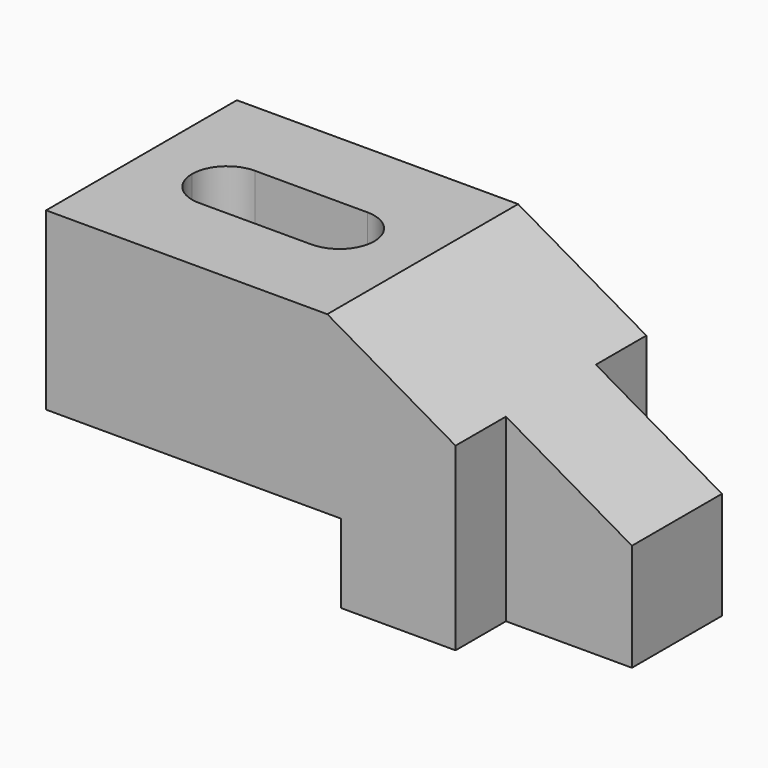
from build123d import *

# Parameters (mm, degrees)
F0_W     = 120.904
F0_H     = 57.404
F1_DEPTH = 26.924
F2_W     = 66.548
F2_H     = 17.78
F3_DEPTH = 53.849
F4_W     = 28.448
F4_H     = 14.224
F5_DEPTH = 57.405
F7_DEPTH = 57.405


with BuildPart() as f1:
    # F0 (on Front) → F1 (new body, symmetric)
    with BuildSketch(Plane.XZ):
        with Locations((60.452, 28.702)):
            Rectangle(F0_W, F0_H)
    extrude(amount=F1_DEPTH, both=True)

    # F2 (on face) → F3 (cut, through all)
    with BuildSketch(Plane.XZ.offset(26.924)):
        with Locations((33.274, 8.89)):
            Rectangle(F2_W, F2_H)
        Polygon((63.5, 57.404), (120.904, 24.2617851474), (120.904, 57.404), align=None)
    extrude(amount=-F3_DEPTH, mode=Mode.SUBTRACT)

    # F4 (on face) → F5 (cut, through all)
    with BuildSketch(Plane(origin=(0, 0, 0), x_dir=(1, 0, 0), z_dir=(0, 0, -1))):
        with Locations((106.68, 19.812)):
            Rectangle(F4_W, F4_H)
        with Locations((106.68, -19.812)):
            Rectangle(F4_W, F4_H)
    extrude(amount=-F5_DEPTH, mode=Mode.SUBTRACT)

    # F6 (on face) → F7 (cut, through all)
    with BuildSketch(Plane.XY.offset(57.404)):
        with BuildLine():
            ThreePointArc((27.178, 0), (24.8717587951, -5.5677587951), (19.304, -7.874))
            Line((19.304, -7.874), (44.704, -7.874))
            ThreePointArc((44.704, -7.874), (39.1362412049, -5.5677587951), (36.83, 0))
            Line((36.83, 0), (27.178, 0))
        make_face()
        with BuildLine():
            Line((44.704, 7.874), (19.304, 7.874))
            ThreePointArc((19.304, 7.874), (24.8717587951, 5.5677587951), (27.178, 0))
            Line((27.178, 0), (36.83, 0))
            ThreePointArc((36.83, 0), (39.1362412049, 5.5677587951), (44.704, 7.874))
        make_face()
        with BuildLine():
            ThreePointArc((19.304, 7.874), (13.7362412049, 5.5677587951), (11.43, 0))
            Line((11.43, 0), (19.304, 0))
            Line((19.304, 0), (27.178, 0))
            ThreePointArc((27.178, 0), (24.8717587951, 5.5677587951), (19.304, 7.874))
        make_face()
        with BuildLine():
            Line((19.304, 0), (11.43, 0))
            ThreePointArc((11.43, 0), (13.7362412049, -5.5677587951), (19.304, -7.874))
            ThreePointArc((19.304, -7.874), (24.8717587951, -5.5677587951), (27.178, 0))
            Line((27.178, 0), (19.304, 0))
        make_face()
        with BuildLine():
            ThreePointArc((52.578, 0), (50.2717587951, 5.5677587951), (44.704, 7.874))
            ThreePointArc((44.704, 7.874), (39.1362412049, 5.5677587951), (36.83, 0))
            ThreePointArc((36.83, 0), (39.1362412049, -5.5677587951), (44.704, -7.874))
            ThreePointArc((44.704, -7.874), (50.2717587951, -5.5677587951), (52.578, 0))
        make_face()
    extrude(amount=-F7_DEPTH, mode=Mode.SUBTRACT)


solid = f1.part
